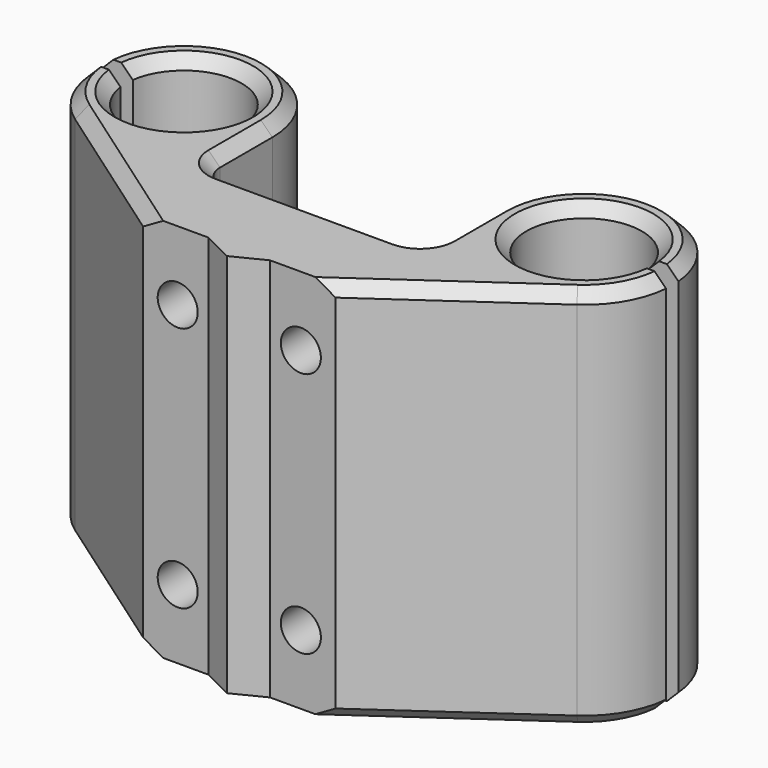
from build123d import *

# Parameters (mm, degrees)
PAD_DEPTH       = 50
POCKET_DEPTH    = 25
SKETCH002_R     = 2.6
POCKET001_DEPTH = 35.001
SKETCH003_R     = 5
POCKET002_DEPTH = 30
SKETCH004_R     = 5.2
SKETCH004_R_2   = 1.4
POCKET003_DEPTH = 25.001
CHAMFER_SIZE    = 1.5
CHAMFER001_SIZE = 1


with BuildPart() as part:
    # Sketch → Pad (new body)
    with BuildSketch(Plane.XY):
        with BuildLine():
            ThreePointArc((-33.433034, 10.5), (-18.5, 11.5), (-33.433034, 12.5))
            Line((-37.456439, 12.5), (-33.433034, 12.5))
            ThreePointArc((-26, 23), (-33.770135, 19.977912), (-37.456439, 12.5))
            Line((-26, 23), (26, 23))
            ThreePointArc((37.456439, 12.5), (33.770135, 19.977912), (26, 23))
            Line((33.433034, 12.5), (37.456439, 12.5))
            ThreePointArc((33.433034, 12.5), (18.5, 11.5), (33.433034, 10.5))
            Line((33.433034, 10.5), (37.456439, 10.5))
            ThreePointArc((32.598736, 2.081577), (35.960662, 5.752374), (37.456439, 10.5))
            Line((12.5, -12), (32.598736, 2.081577))
            Line((4, -12), (12.5, -12))
            Line((0, -14), (4, -12))
            Line((-4, -12), (0, -14))
            Line((-12.5, -12), (-4, -12))
            Line((-32.598736, 2.081577), (-12.5, -12))
            ThreePointArc((-37.456439, 10.5), (-35.960662, 5.752374), (-32.598736, 2.081577))
            Line((-37.456439, 10.5), (-33.433034, 10.5))
        make_face()
    extrude(amount=PAD_DEPTH)

    # Sketch001 (on Face19 of Pad) → Pocket (cut)
    with BuildSketch(Plane.XY.offset(50)):
        with BuildLine():
            Line((-26, 23), (26, 23))
            ThreePointArc((26, 23), (17.868272, 19.631728), (14.5, 11.5))
            Line((14.5, 3), (14.5, 11.5))
            ThreePointArc((11.5, 0), (13.62132, 0.87868), (14.5, 3))
            Line((-11.5, 0), (11.5, 0))
            ThreePointArc((-14.5, 3), (-13.62132, 0.87868), (-11.5, 0))
            Line((-14.5, 11.5), (-14.5, 3))
            ThreePointArc((-14.5, 11.5), (-17.868272, 19.631728), (-26, 23))
        make_face()
    extrude(amount=-POCKET_DEPTH, mode=Mode.SUBTRACT)

    # Sketch002 (on Face19 of Pocket) → Pocket001 (cut, through all)
    with BuildSketch(Plane.XZ.offset(12)):
        with Locations((-8, 41)):
            Circle(SKETCH002_R)
        with Locations((8, 41)):
            Circle(SKETCH002_R)
        with Locations((-8, 9)):
            Circle(SKETCH002_R)
        with Locations((8, 9)):
            Circle(SKETCH002_R)
    extrude(amount=-POCKET001_DEPTH, mode=Mode.SUBTRACT)

    # Sketch003 (on Face9 of Pocket001) → Pocket002 (cut)
    with BuildSketch(Plane(origin=(0, 23, 0), x_dir=(-1, 0, 0), z_dir=(0, 1, 0))):
        with Locations((-8, 41)):
            Circle(SKETCH003_R)
        with Locations((8, 41)):
            Circle(SKETCH003_R)
        with Locations((8, 9)):
            Circle(SKETCH003_R)
        with Locations((-8, 9)):
            Circle(SKETCH003_R)
    extrude(amount=-POCKET002_DEPTH, mode=Mode.SUBTRACT)

    # Sketch004 (on Face27 of Pocket002) → Pocket003 (cut, through all)
    with BuildSketch(Plane.XY.offset(25)):
        with Locations((0, 11.5)):
            Circle(SKETCH004_R)
        with Locations((-5.656854, 17.156854)):
            Circle(SKETCH004_R_2)
        with Locations((5.656854, 17.156854)):
            Circle(SKETCH004_R_2)
        with Locations((5.656854, 5.843146)):
            Circle(SKETCH004_R_2)
        with Locations((-5.656854, 5.843146)):
            Circle(SKETCH004_R_2)
    extrude(amount=-POCKET003_DEPTH, mode=Mode.SUBTRACT)

    # Chamfer
    chamfer_edges = [part.edges().sort_by_distance(p)[0] for p in [
        (17.868272, 19.631728, 50),
        (33.770135, 19.977912, 50),
        (14.5, 7.25, 50),
        (13.62132, 0.87868, 50),
        (0, 0, 50),
        (-13.62132, 0.87868, 50),
        (-14.5, 7.25, 50),
        (-17.868272, 19.631728, 50),
        (-33.770135, 19.977912, 50),
        (-35.960662, 5.752374, 50),
        (-22.549368, -4.959211, 50),
        (22.549368, -4.959211, 50),
        (35.960662, 5.752374, 50),
        (18.5, 11.5, 50),
        (-18.5, 11.5, 50),
        (33.770135, 19.977912, 0),
        (0, 23, 0),
        (-33.770135, 19.977912, 0),
        (-18.5, 11.5, 0),
        (-35.960662, 5.752374, 0),
        (-22.549368, -4.959211, 0),
        (22.549368, -4.959211, 0),
        (35.960662, 5.752374, 0),
        (18.5, 11.5, 0),
    ]]
    chamfer(chamfer_edges, length=CHAMFER_SIZE)

    # Chamfer001
    chamfer001_edges = [part.edges().sort_by_distance(p)[0] for p in [
        (-5.2, 11.5, 25),
    ]]
    chamfer(chamfer001_edges, length=CHAMFER001_SIZE)


solid = part.part
